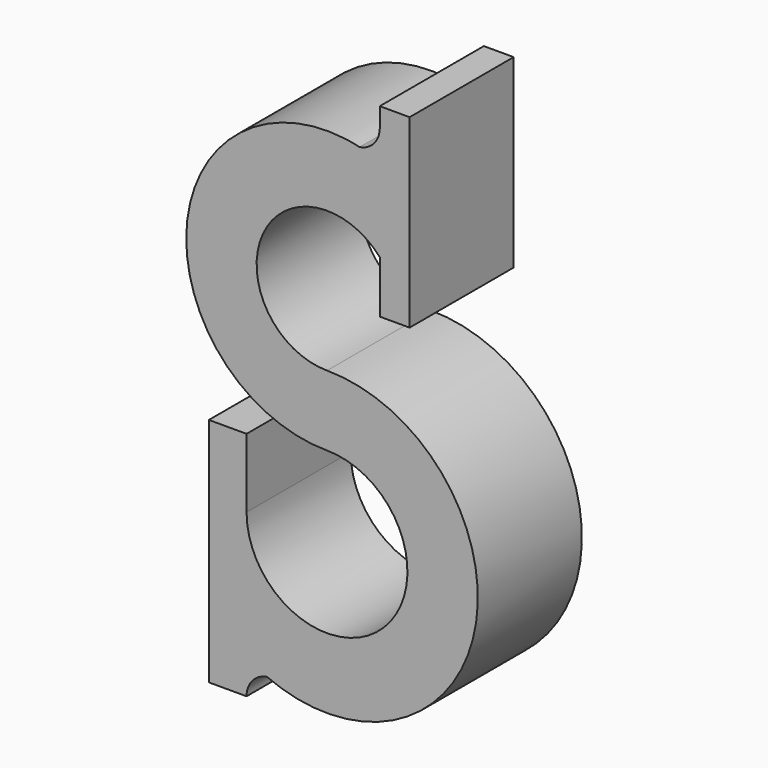
from build123d import *

# Parameters (mm, degrees)
F1_DEPTH = 6.35
F2_SCALE = 0.5


with BuildPart() as f1:
    # F0 (on Front) → F1 (new body, symmetric)
    with BuildSketch(Plane.XZ):
        with BuildLine():
            ThreePointArc((-11.5290090528, -23.8732525036), (-9.8294039198, -25.6783091317), (-7.850968465, -27.1725247086))
            Line((-7.850968465, -27.1725247086), (-7.850968465, -14.7204540884))
            Line((-7.850968465, -14.7204540884), (-7.850968465, -7.9911025987))
            Line((-7.850968465, -7.9911025987), (-11.5290090528, -7.9911025987))
            Line((-11.5290090528, -7.9911025987), (-11.5290090528, -23.8732525036))
        make_face()
        with BuildLine():
            Line((-7.850968465, -30.5458810074), (-7.850968465, -27.1725247086))
            ThreePointArc((-7.850968465, -27.1725247086), (-9.8294039198, -25.6783091317), (-11.5290090528, -23.8732525036))
            Line((-11.5290090528, -23.8732525036), (-11.5290090528, -30.5458810074))
            Line((-11.5290090528, -30.5458810074), (-7.850968465, -30.5458810074))
        make_face()
        Polygon((5.1503910808, 19.6066750714), (5.1503910808, 11.4153277746), (5.1503910808, 6.3087673495), (8.0611995911, 6.3087673495), (8.0611995911, 24.3938967455), (5.1503910808, 24.3938967455), (5.1503910808, 22.4311687176), align=None)
        with BuildLine():
            ThreePointArc((-5.8608669981, -28.2238613102), (14.4129812082, -17.7134026782), (0, 0))
            ThreePointArc((0, 0), (-6.2617137528, 9.6947188107), (5.1503910808, 11.4153277746))
            Line((5.1503910808, 11.4153277746), (5.1503910808, 19.6066750714))
            ThreePointArc((5.1503910808, 19.6066750714), (4.1758661078, 19.9585920865), (3.1775916397, 20.236067482))
            ThreePointArc((3.1775916397, 20.236067482), (2.4268766545, 20.2483751203), (1.7196691769, 20.5005299348))
            ThreePointArc((1.7196691769, 20.5005299348), (-13.7119930511, 7.7310759956), (0, -6.8694856234))
            ThreePointArc((0, -6.8694856234), (5.5514730405, -20.2719271289), (-7.850968465, -14.7204540884))
            Line((-7.850968465, -14.7204540884), (-7.850968465, -27.1725247086))
            ThreePointArc((-7.850968465, -27.1725247086), (-6.8760406561, -27.7362841988), (-5.8608669981, -28.2238613102))
        make_face()
        with BuildLine():
            ThreePointArc((1.7196691769, 20.5005299348), (2.4268766545, 20.2483751203), (3.1775916397, 20.236067482))
            ThreePointArc((3.1775916397, 20.236067482), (2.4521981922, 20.3879671044), (1.7196691769, 20.5005299348))
        make_face()
        with BuildLine():
            ThreePointArc((3.1775916397, 20.236067482), (4.1758661078, 19.9585920865), (5.1503910808, 19.6066750714))
            Line((5.1503910808, 19.6066750714), (5.1503910808, 22.4311687176))
            ThreePointArc((5.1503910808, 22.4311687176), (4.5596761112, 20.9780050452), (3.1775916397, 20.236067482))
        make_face()
        with BuildLine():
            ThreePointArc((-7.850968465, -30.5458810074), (-7.2853702731, -29.0168061791), (-5.8608669981, -28.2238613102))
            ThreePointArc((-5.8608669981, -28.2238613102), (-6.8760406561, -27.7362841988), (-7.850968465, -27.1725247086))
            Line((-7.850968465, -27.1725247086), (-7.850968465, -30.5458810074))
        make_face()
    extrude(amount=F1_DEPTH, both=True)


with BuildPart() as f1_1:
    # F2: moved
    add(f1.part.scale(F2_SCALE))


solid = f1_1.part
